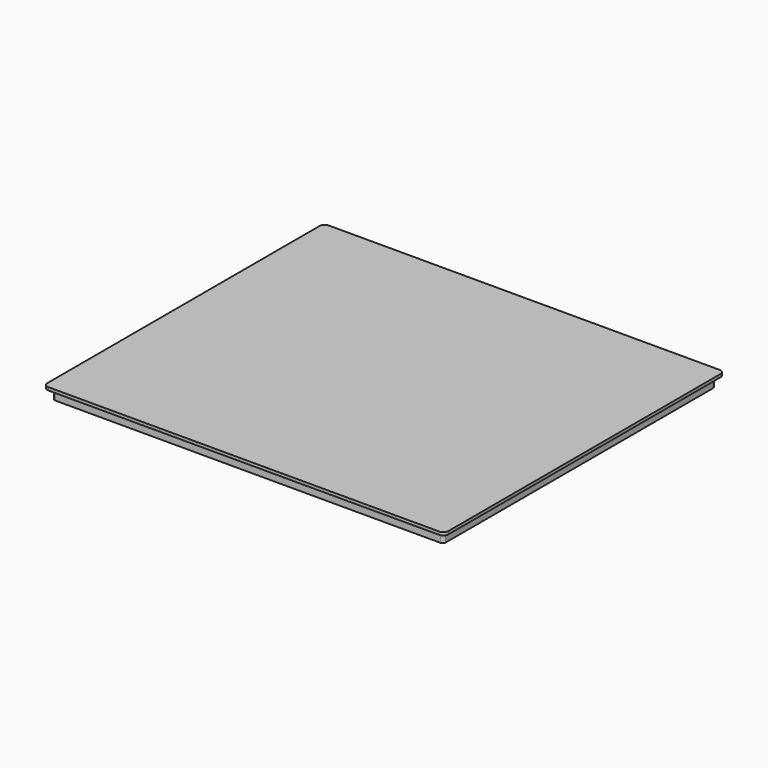
from build123d import *

# Parameters (mm, degrees)
F0_W     = 394
F0_H     = 343
F0_W_2   = 388
F0_H_2   = 337
F1_DEPTH = 10
F2_W     = 404
F2_H     = 353
F3_DEPTH = 3
F4_R     = 5
F5_R     = 3


with BuildPart() as f1:
    # F0 (on Top) → F1 (new body)
    with BuildSketch(Plane.XY):
        Rectangle(F0_W, F0_H)
        Rectangle(F0_W_2, F0_H_2, mode=Mode.SUBTRACT)
    extrude(amount=-F1_DEPTH)

    # F2 (on face) → F3 (join)
    with BuildSketch(Plane.XY):
        Rectangle(F2_W, F2_H)
    extrude(amount=F3_DEPTH)

    # F4
    f4_edges = [f1.edges().sort_by_distance(p)[0] for p in [
        (-202, -176.5, 1.5),
        (202, -176.5, 1.5),
        (202, 176.5, 1.5),
        (-202, 176.5, 1.5),
    ]]
    fillet(f4_edges, radius=F4_R)

    # F5
    f5_edges = [f1.edges().sort_by_distance(p)[0] for p in [
        (197, 171.5, -5),
        (-197, 171.5, -5),
        (-197, -171.5, -5),
        (197, -171.5, -5),
    ]]
    fillet(f5_edges, radius=F5_R)


solid = f1.part
